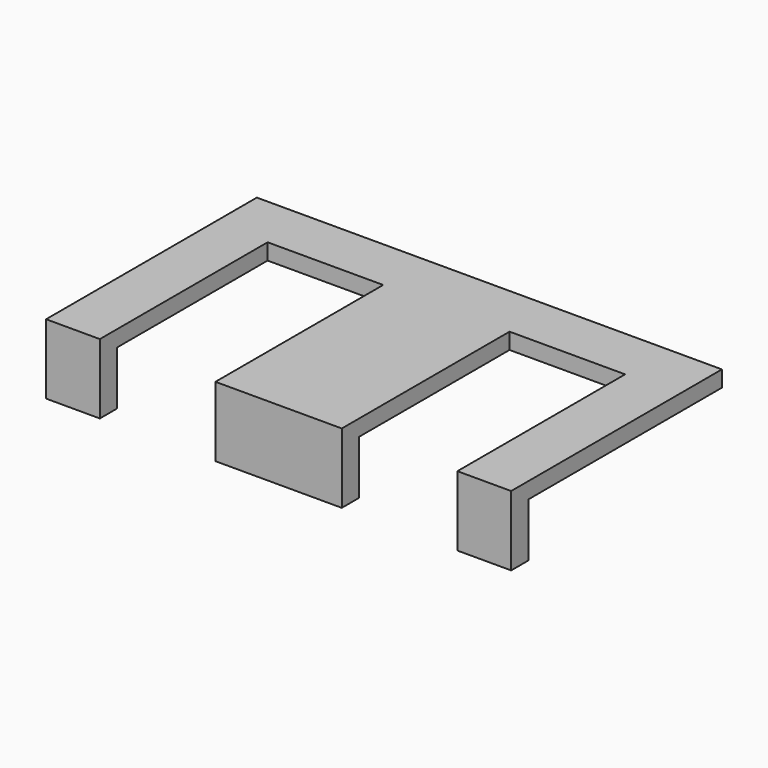
from build123d import *

# Parameters (mm, degrees)
F0_W     = 10
F0_H     = 4
F0_W_2   = 23.5
F1_DEPTH = 3
F2_DEPTH = 10


with BuildPart() as f1:
    # F0 (on Top) → F1 (new body)
    with BuildSketch(Plane.XY):
        Polygon((-10.75, -35), (-10.75, 0), (10.75, 0), (10.75, -35), (34.25, -35), (34.25, 0), (55.75, 0), (55.75, -35), (65.75, -35), (65.75, 10), (-20.75, 10), (-20.75, -35), align=None)
        with Locations((-15.75, -37)):
            Rectangle(F0_W, F0_H)
        with Locations((22.5, -37)):
            Rectangle(F0_W_2, F0_H)
        with Locations((60.75, -37)):
            Rectangle(F0_W, F0_H)
    extrude(amount=F1_DEPTH)

    # F0 (on Top) → F2 (join)
    with BuildSketch(Plane.XY):
        with Locations((-15.75, -37)):
            Rectangle(F0_W, F0_H)
        with Locations((22.5, -37)):
            Rectangle(F0_W_2, F0_H)
        with Locations((60.75, -37)):
            Rectangle(F0_W, F0_H)
    extrude(amount=-F2_DEPTH)


solid = f1.part
